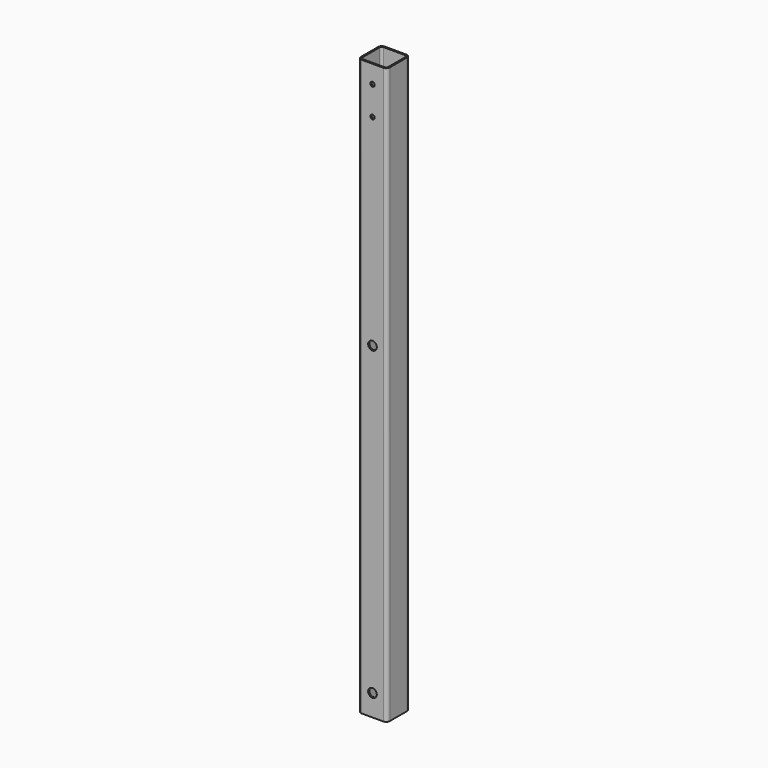
from build123d import *

# Parameters (mm, degrees)
F1_DEPTH = 800
F2_R     = 3
F3_DEPTH = 25
F5_R     = 6
F6_DEPTH = 40.001


with BuildPart() as f1:
    # F0 (on Top) → F1 (new body)
    with BuildSketch(Plane.XY):
        with BuildLine():
            Line((-15, -20), (15, -20))
            ThreePointArc((15, -20), (18.535534, -18.535534), (20, -15))
            Line((20, -15), (20, 15))
            ThreePointArc((20, 15), (18.535534, 18.535534), (15, 20))
            Line((15, 20), (-15, 20))
            ThreePointArc((-15, 20), (-18.535534, 18.535534), (-20, 15))
            Line((-20, 15), (-20, -15))
            ThreePointArc((-20, -15), (-18.535534, -18.535534), (-15, -20))
        make_face()
        with BuildLine():
            ThreePointArc((18, -15), (17.12132, -17.12132), (15, -18))
            Line((15, -18), (-15, -18))
            ThreePointArc((-15, -18), (-17.12132, -17.12132), (-18, -15))
            Line((-18, -15), (-18, 15))
            ThreePointArc((-18, 15), (-17.12132, 17.12132), (-15, 18))
            Line((-15, 18), (15, 18))
            ThreePointArc((15, 18), (17.12132, 17.12132), (18, 15))
            Line((18, 15), (18, -15))
        make_face(mode=Mode.SUBTRACT)
    extrude(amount=F1_DEPTH)

    # F2 (on face) → F3 (cut)
    with BuildSketch(Plane.XZ.offset(20)):
        with Locations((0, 775)):
            Circle(F2_R)
        with Locations((0, 735)):
            Circle(F2_R)
    extrude(amount=-F3_DEPTH, mode=Mode.SUBTRACT)

    # F5 (on face) → F6 (cut, through all)
    with BuildSketch(Plane.XZ.offset(20)):
        with Locations((0, 455)):
            Circle(F5_R)
        with Locations((0, 30)):
            Circle(F5_R)
    extrude(amount=-F6_DEPTH, mode=Mode.SUBTRACT)


solid = f1.part
